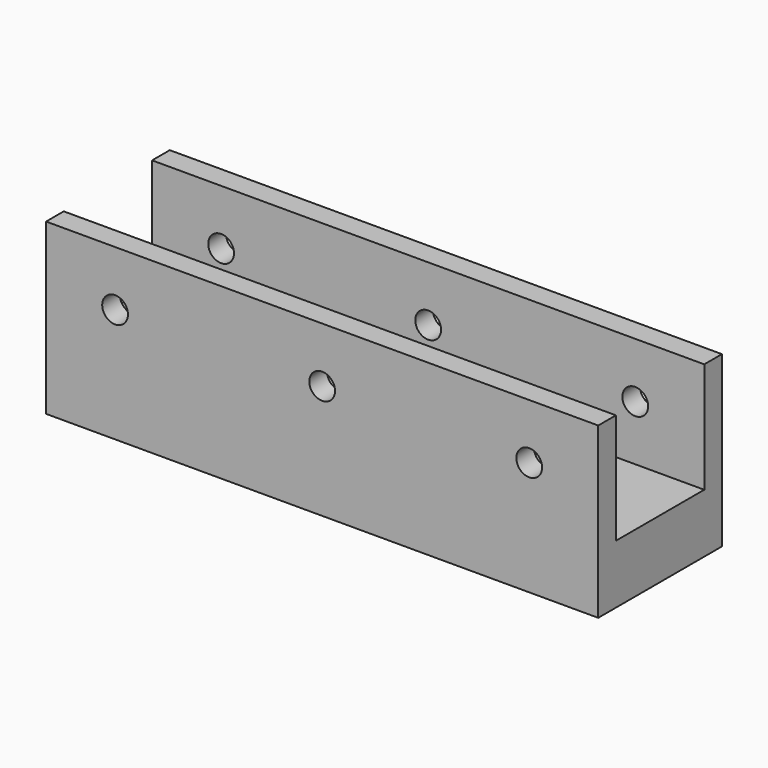
from build123d import *

# Parameters (mm, degrees)
F0_W     = 75
F0_H     = 15
F0_R     = 4.05
F0_R_2   = 1.75
F0_R_3   = 4.5
F1_DEPTH = 8
F0_H_2   = 3
F2_DEPTH = 23
F3_R     = 1.75
F4_DEPTH = 25


with BuildPart() as f1:
    # F0 (on Top) → F1 (new body)
    with BuildSketch(Plane.XY):
        Rectangle(F0_W, F0_H)
        with Locations((-25, 0)):
            Circle(F0_R, mode=Mode.SUBTRACT)
        with Locations((-12.5, 0)):
            Circle(F0_R_2, mode=Mode.SUBTRACT)
        Circle(F0_R_3, mode=Mode.SUBTRACT)
        with Locations((12.5, 0)):
            Circle(F0_R_2, mode=Mode.SUBTRACT)
        with Locations((25, 0)):
            Circle(F0_R, mode=Mode.SUBTRACT)
    extrude(amount=F1_DEPTH)

    # F0 (on Top) → F2 (join)
    with BuildSketch(Plane.XY):
        with Locations((0, 9)):
            Rectangle(F0_W, F0_H_2)
        with Locations((0, -9)):
            Rectangle(F0_W, F0_H_2)
    extrude(amount=F2_DEPTH)

    # F3 (on face) → F4 (cut)
    with BuildSketch(Plane.XZ.offset(10.5)):
        with Locations((-28.125, 15.5)):
            Circle(F3_R)
        with Locations((0, 15.5)):
            Circle(F3_R)
        with Locations((28.125, 15.5)):
            Circle(F3_R)
    extrude(amount=-F4_DEPTH, mode=Mode.SUBTRACT)


solid = f1.part
